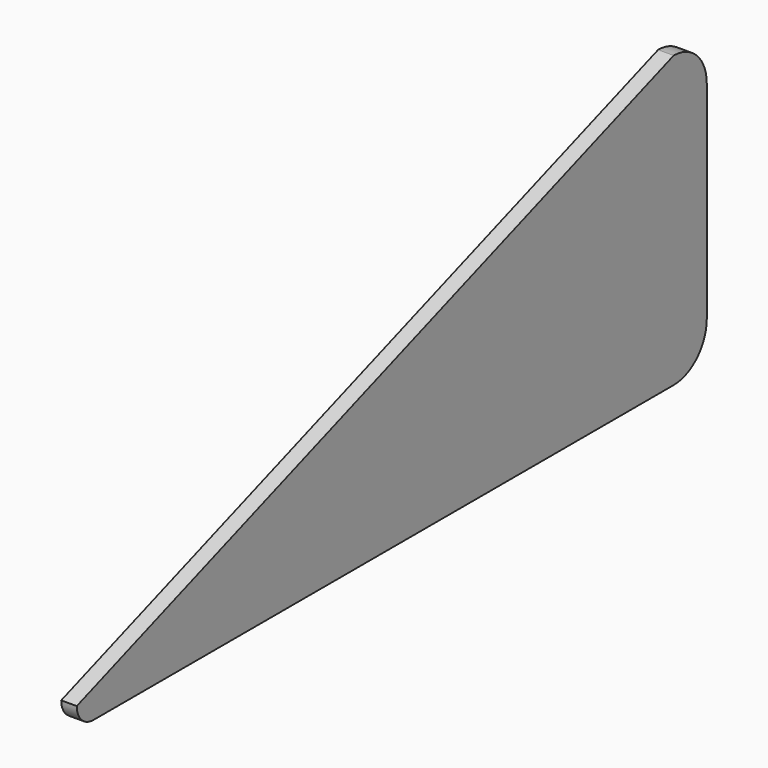
from build123d import *

# Parameters (mm, degrees)
F1_DEPTH = 19.05


with BuildPart() as f1:
    # F0 (on Right) → F1 (new body)
    with BuildSketch(Plane.YZ):
        with BuildLine():
            ThreePointArc((482.6, 127), (467.721024, 162.921024), (431.8, 177.8))
            Line((431.8, 177.8), (-482.6, -152.4))
            ThreePointArc((-482.6, -152.4), (-475.160512, -170.360512), (-457.2, -177.8))
            Line((-457.2, -177.8), (431.8, -177.8))
            ThreePointArc((431.8, -177.8), (467.721024, -162.921024), (482.6, -127))
            Line((482.6, -127), (482.6, 127))
        make_face()
    extrude(amount=F1_DEPTH)


solid = f1.part
